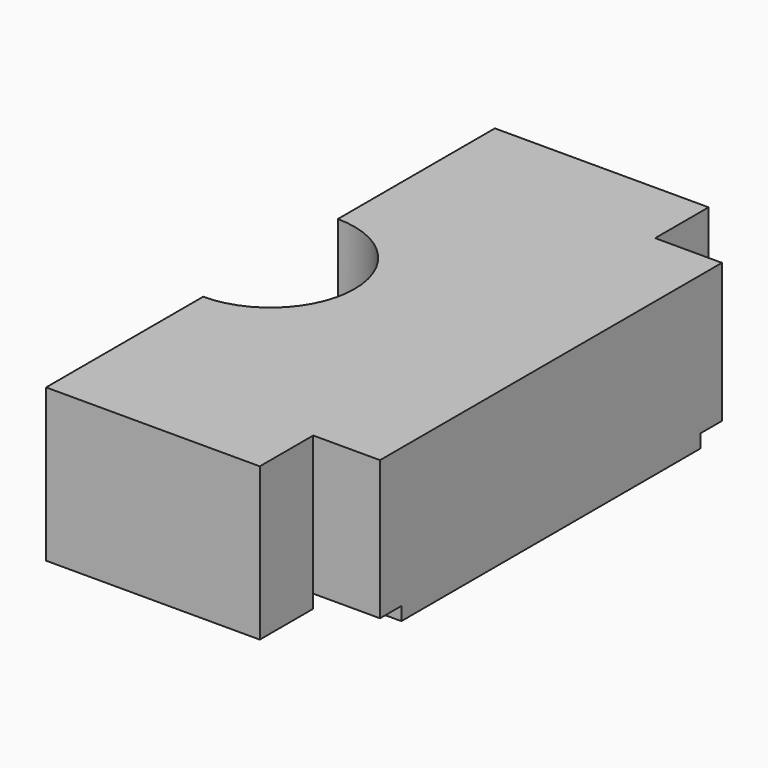
from build123d import *

# Parameters (mm, degrees)
PAD008_DEPTH    = 12.85
PAD009_DEPTH    = 10
SKETCH021_R     = 1.275
POCKET006_DEPTH = 15
SKETCH022_W     = 42
SKETCH022_H     = 4
POCKET007_DEPTH = 2
SKETCH027_R     = 1.3
POCKET011_DEPTH = 10
SKETCH028_W     = 10
SKETCH028_H     = 10
POCKET012_DEPTH = 22.8536497878


with BuildPart() as part:
    # Sketch012 (on DatumPlane) → Pad008 (new body)
    with BuildSketch(Plane(origin=(0.0007630761, 0.000154743, 17.0004579694), x_dir=(0.999999999, -4e-10, -4.48856e-05), z_dir=(-4.48856e-05, -9.1023e-06, -0.999999999))):
        with BuildLine():
            Line((0, 42), (42, 42))
            Line((42, 42), (42, -42))
            Line((42, -42), (0, -42))
            Line((0, -42), (0, -12.6))
            ThreePointArc((0, -12.6), (12.6, 0), (0, 12.6))
            Line((0, 42), (0, 12.6))
        make_face()
    extrude(amount=PAD008_DEPTH)

    # Sketch013 (on Face8 of Pad008) → Pad009 (join)
    with BuildSketch(Plane(origin=(0.0001862959, 3.77787e-05, 4.1504579829), x_dir=(0.999999999, -4e-10, -4.48856e-05), z_dir=(-4.48856e-05, -9.1023e-06, -0.999999999))):
        with BuildLine():
            ThreePointArc((0, -23.6), (23.6, 0), (0, 23.6))
            Line((0, 23.6), (0, 42))
            Line((0, 42), (42, 42))
            Line((42, 42), (42, -42))
            Line((42, -42), (0, -42))
            Line((0, -42), (0, -23.6))
        make_face()
    extrude(amount=PAD009_DEPTH)

    # Sketch021 (on Face7 of Pad009) → Pocket006 (cut)
    with BuildSketch(Plane(origin=(0.0007630761, 0.000154743, 17.0004579694), x_dir=(0, 1, -9.1023e-06), z_dir=(-0.999999999, 4e-10, 4.48856e-05))):
        with Locations((-37, 5)):
            Circle(SKETCH021_R)
        with Locations((37, 5)):
            Circle(SKETCH021_R)
    extrude(amount=-POCKET006_DEPTH, mode=Mode.SUBTRACT)

    # Sketch022 (on Face8 of Pocket006) → Pocket007 (cut)
    with BuildSketch(Plane(origin=(-0.0002625603, -5.32442e-05, -5.8495420067), x_dir=(0.999999999, -4e-10, -4.48856e-05), z_dir=(-4.48856e-05, -9.1023e-06, -0.999999999))):
        with Locations((21, 30)):
            Rectangle(SKETCH022_W, SKETCH022_H)
        with Locations((21, -30)):
            Rectangle(SKETCH022_W, SKETCH022_H)
    extrude(amount=-POCKET007_DEPTH, mode=Mode.SUBTRACT)

    # Sketch027 (on Face13 of Pocket007) → Pocket011 (cut)
    with BuildSketch(Plane(origin=(-0.0002625603, -5.32442e-05, -5.8495420067), x_dir=(0.999999999, -4e-10, -4.48856e-05), z_dir=(-4.48856e-05, -9.1023e-06, -0.999999999))):
        with Locations((32, 12.5)):
            Circle(SKETCH027_R)
        with Locations((32, -12.5)):
            Circle(SKETCH027_R)
    extrude(amount=-POCKET011_DEPTH, mode=Mode.SUBTRACT)

    # Sketch028 (on Face9 of Pocket011) → Pocket012 (cut, through all)
    with BuildSketch(Plane(origin=(-0.0002625603, -5.32442e-05, -5.8495420067), x_dir=(0.999999999, -4e-10, -4.48856e-05), z_dir=(-4.48856e-05, -9.1023e-06, -0.999999999))):
        with Locations((37, -37)):
            Rectangle(SKETCH028_W, SKETCH028_H)
        with Locations((37, 37)):
            Rectangle(SKETCH028_W, SKETCH028_H)
    extrude(amount=-POCKET012_DEPTH, mode=Mode.SUBTRACT)


solid = part.part
